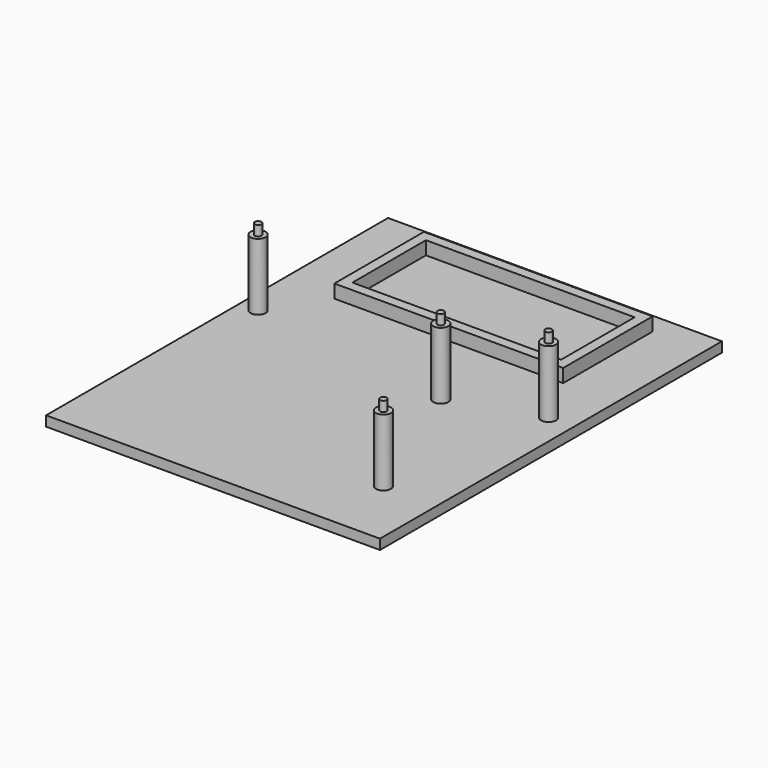
from build123d import *

# Parameters (mm, degrees)
F0_W      = 100
F0_H      = 128
F0_R      = 2.25
F0_W_2    = 68.5
F0_H_2    = 33.5
F0_W_3    = 62.5
F0_H_3    = 27.5
F1_DEPTH  = 3
F2_DEPTH  = 20
F3_DEPTH  = 4
F4_R      = 1
F5_DEPTH  = 3
F6_R      = 1
F7_DEPTH  = 3
F8_R      = 1
F9_DEPTH  = 3
F10_R     = 1
F11_DEPTH = 3


with BuildPart() as f1:
    # F0 (on Top) → F1 (new body)
    with BuildSketch(Plane.XY):
        with Locations((0, 4)):
            Rectangle(F0_W, F0_H)
        with Locations((34, -38.7)):
            Circle(F0_R, mode=Mode.SUBTRACT)
        with Locations((-44.5, 12.5)):
            Circle(F0_R, mode=Mode.SUBTRACT)
        with Locations((17, 4)):
            Circle(F0_R, mode=Mode.SUBTRACT)
        with Locations((42.5, 12.5)):
            Circle(F0_R, mode=Mode.SUBTRACT)
        with Locations((0, 45)):
            Rectangle(F0_W_2, F0_H_2, mode=Mode.SUBTRACT)
        with Locations((0, 45)):
            Rectangle(F0_W_2, F0_H_2)
        with Locations((0, 45)):
            Rectangle(F0_W_3, F0_H_3, mode=Mode.SUBTRACT)
        with Locations((-44.5, 12.5)):
            Circle(F0_R)
        with Locations((17, 4)):
            Circle(F0_R)
        with Locations((42.5, 12.5)):
            Circle(F0_R)
        with Locations((0, 45)):
            Rectangle(F0_W_3, F0_H_3)
        with Locations((34, -38.7)):
            Circle(F0_R)
    extrude(amount=-F1_DEPTH)

    # F0 (on Top) → F2 (join)
    with BuildSketch(Plane.XY):
        with Locations((-44.5, 12.5)):
            Circle(F0_R)
        with Locations((17, 4)):
            Circle(F0_R)
        with Locations((42.5, 12.5)):
            Circle(F0_R)
        with Locations((34, -38.7)):
            Circle(F0_R)
    extrude(amount=F2_DEPTH)

    # F0 (on Top) → F3 (join)
    with BuildSketch(Plane.XY):
        with Locations((0, 45)):
            Rectangle(F0_W_2, F0_H_2)
        with Locations((0, 45)):
            Rectangle(F0_W_3, F0_H_3, mode=Mode.SUBTRACT)
    extrude(amount=F3_DEPTH)

    # F4 (on face) → F5 (join)
    with BuildSketch(Plane.XY.offset(20)):
        with Locations((-44.5, 12.5)):
            Circle(F4_R)
    extrude(amount=F5_DEPTH)

    # F6 (on face) → F7 (join)
    with BuildSketch(Plane.XY.offset(20)):
        with Locations((17, 4)):
            Circle(F6_R)
    extrude(amount=F7_DEPTH)

    # F8 (on face) → F9 (join)
    with BuildSketch(Plane.XY.offset(20)):
        with Locations((42.5, 12.5)):
            Circle(F8_R)
    extrude(amount=F9_DEPTH)

    # F10 (on face) → F11 (join)
    with BuildSketch(Plane.XY.offset(20)):
        with Locations((34, -38.7)):
            Circle(F10_R)
    extrude(amount=F11_DEPTH)


solid = f1.part
